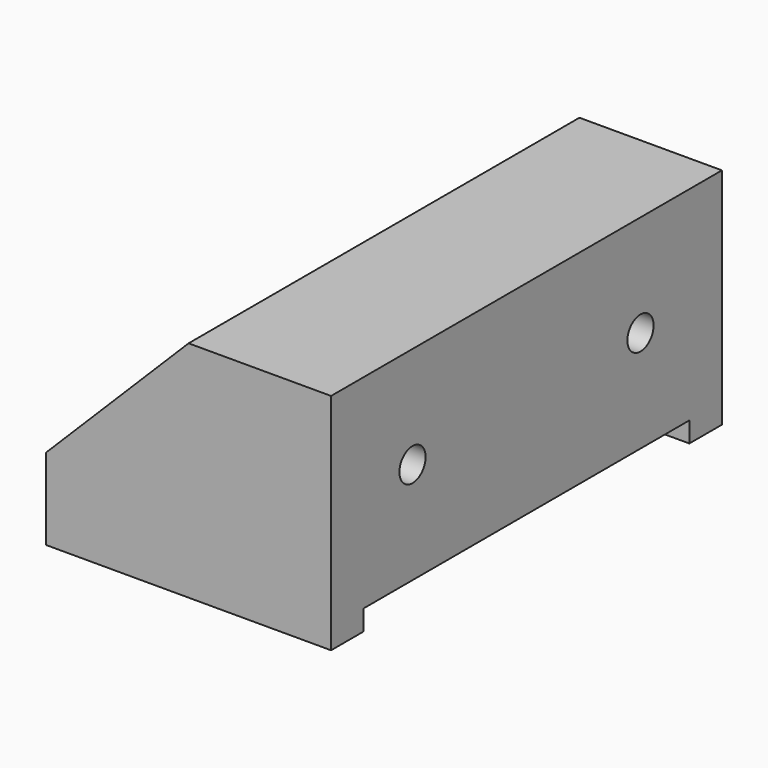
from build123d import *

# Parameters (mm, degrees)
F1_DEPTH = 38.1
F2_W     = 63.5
F2_H     = 3.175
F3_DEPTH = 44.451
F5_D     = 5.1054
F5_DEPTH = 12.7
F5_TIP   = 1.5338169022
F7_ANGLE = 180


with BuildPart() as f1:
    # F0 (on Front) → F1 (new body, symmetric)
    with BuildSketch(Plane.XZ):
        Polygon((0, 12.7), (0, 0), (44.45, 0), (44.45, 34.925), (22.225, 34.925), align=None)
    extrude(amount=F1_DEPTH, both=True)

    # F2 (on face) → F3 (cut, through all)
    with BuildSketch(Plane(origin=(0, 0, 0), x_dir=(0, -1, 0), z_dir=(-1, 0, 0))):
        with Locations((0, 1.5875)):
            Rectangle(F2_W, F2_H)
    extrude(amount=-F3_DEPTH, mode=Mode.SUBTRACT)

    # F5
    with Locations(Plane.YZ.offset(44.45)):
        with Locations((-22.225, 19.05), (22.225, 19.05)):
            Hole(F5_D / 2, depth=F5_DEPTH)
            with Locations((0, 0, -(F5_DEPTH + F5_TIP / 2))):  # 118° drill point
                Cone(0, F5_D / 2, F5_TIP, mode=Mode.SUBTRACT)

    # F6 (on face) → F7 (revolve, cut)
    with BuildSketch(Plane(origin=(-6.35, 0, 6.35), x_dir=(0, -1, 0), z_dir=(-0.7071067812, 0, 0.7071067812))):
        with BuildLine():
            Line((0, 11.8361525448), (0, 37.2361525448))
            ThreePointArc((0, 37.2361525448), (-12.7, 24.5361525448), (0, 11.8361525448))
        make_face()
    revolve(axis=Axis((10.9996798487, 0, 23.6996798487), (-0.7071067812, 0, -0.7071067812)), revolution_arc=F7_ANGLE, mode=Mode.SUBTRACT)


solid = f1.part
